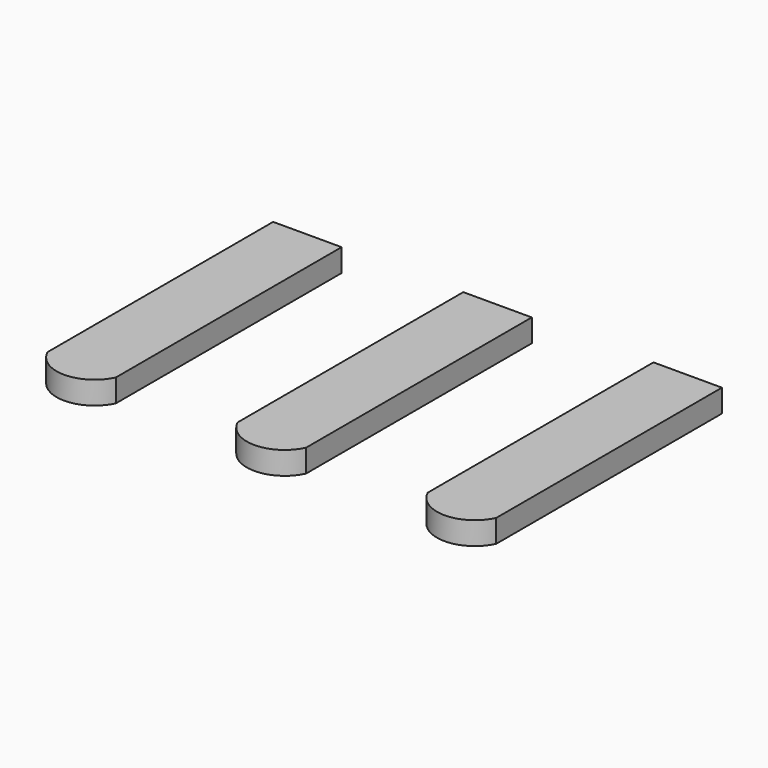
from build123d import *

# Parameters (mm, degrees)
PAD_DEPTH    = 0.15
PAD001_DEPTH = 0.15
PAD002_DEPTH = 0.15


with BuildPart() as body:
    # Sketch → Pad (new body, symmetric)
    with BuildSketch(Plane.XY):
        with BuildLine():
            ThreePointArc((-0.45, -3.709505), (0, -3.994915), (0.45, -3.709505))
            Line((0.45, -3.709505), (0.45, 0))
            Line((-0.45, 0), (0.45, 0))
            Line((-0.45, -3.709505), (-0.45, 0))
        make_face()
    extrude(amount=PAD_DEPTH, both=True)


with BuildPart() as body001:
    # Sketch001 → Pad001 (new body, symmetric)
    with BuildSketch(Plane.XY):
        with BuildLine():
            ThreePointArc((-0.45, -3.709505), (0, -3.994915), (0.45, -3.709505))
            Line((0.45, -3.709505), (0.45, 0))
            Line((-0.45, 0), (0.45, 0))
            Line((-0.45, -3.709505), (-0.45, 0))
        make_face()
    extrude(amount=PAD001_DEPTH, both=True)


with BuildPart() as body001_1:
    # Body001 placement: moved
    add(body001.part.moved(Location((-2.5, 0, 0))))


with BuildPart() as body002:
    # Sketch002 → Pad002 (new body, symmetric)
    with BuildSketch(Plane.XY):
        with BuildLine():
            ThreePointArc((-0.45, -3.709505), (0, -3.994915), (0.45, -3.709505))
            Line((0.45, -3.709505), (0.45, 0))
            Line((-0.45, 0), (0.45, 0))
            Line((-0.45, -3.709505), (-0.45, 0))
        make_face()
    extrude(amount=PAD002_DEPTH, both=True)


with BuildPart() as body002_1:
    # Body002 placement: moved
    add(body002.part.moved(Location((2.5, 0, 0))))


solid = Compound([body.part, body001_1.part, body002_1.part])
